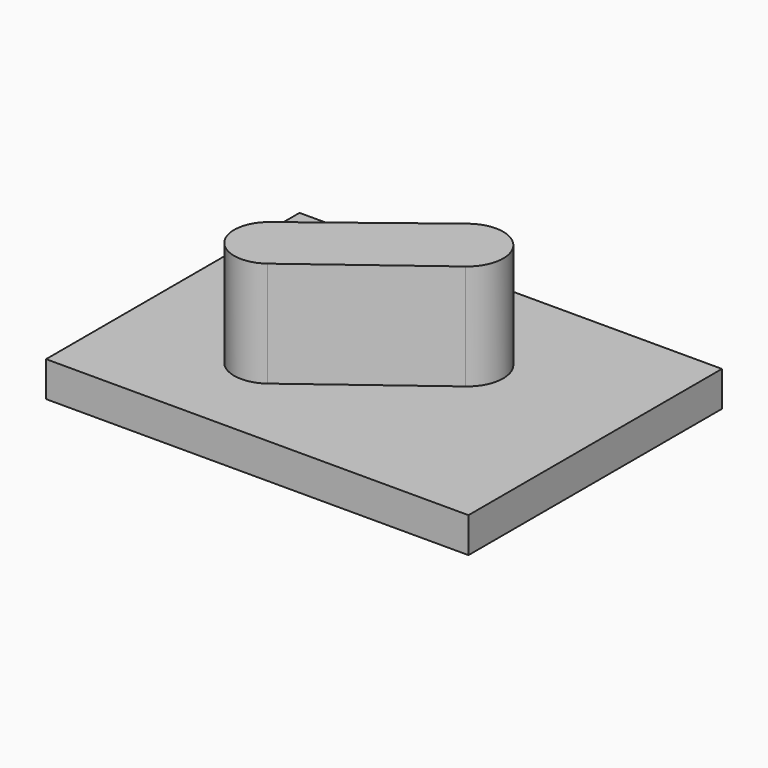
from build123d import *

# Parameters (mm, degrees)
F0_W     = 152.4
F0_H     = 114.3
F1_DEPTH = 12.7
F3_DEPTH = 38.1


with BuildPart() as f1:
    # F0 (on Top) → F1 (new body)
    with BuildSketch(Plane.XY):
        Rectangle(F0_W, F0_H)
    extrude(amount=F1_DEPTH)

    # F2 (on face) → F3 (join)
    with BuildSketch(Plane.XY.offset(12.7)):
        with BuildLine():
            ThreePointArc((26.488992, 3.662594), (29.102852, 21.959613), (10.805833, 24.573473))
            Line((10.805833, 24.573473), (26.488992, 3.662594))
        make_face()
        Polygon((10.805833, 24.573473), (-33.451103, -9.542477), (-18.211103, -29.862477), (26.488992, 3.662594), align=None)
        with BuildLine():
            Line((-18.211103, -29.862477), (-33.451103, -9.542477))
            ThreePointArc((-33.451103, -9.542477), (-35.857688, -27.222416), (-18.211103, -29.862477))
        make_face()
    extrude(amount=F3_DEPTH)


solid = f1.part
